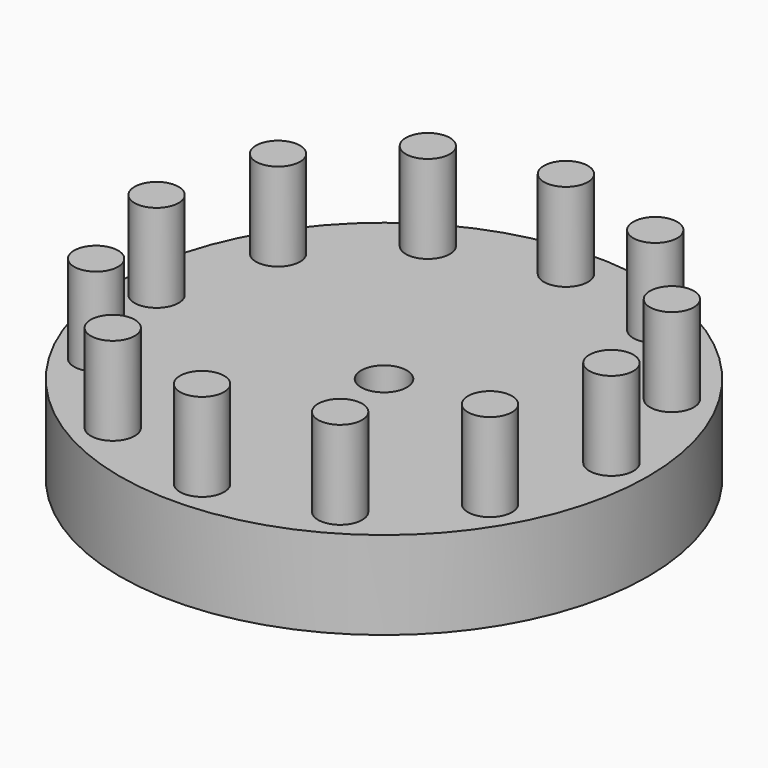
from build123d import *

# Parameters (mm, degrees)
F0_R     = 38.1
F0_R_2   = 3.302
F1_DEPTH = 12.7
F2_R     = 3.175
F3_DEPTH = 12.7


with BuildPart() as f1:
    # F0 (on Top) → F1 (new body)
    with BuildSketch(Plane.XY):
        Circle(F0_R)
        Circle(F0_R_2, mode=Mode.SUBTRACT)
    extrude(amount=F1_DEPTH)

    # F2 (on face) → F3 (join)
    with BuildSketch(Plane.XY.offset(12.7)):
        with Locations((0, 32.803454)):
            Circle(F2_R)
        with Locations((-16.401727, 28.408624)):
            Circle(F2_R)
        with Locations((-28.408624, 16.401727)):
            Circle(F2_R)
        with Locations((-32.803454, 0)):
            Circle(F2_R)
        with Locations((-28.408624, -16.401727)):
            Circle(F2_R)
        with Locations((-16.401727, -28.408624)):
            Circle(F2_R)
        with Locations((0, -32.803454)):
            Circle(F2_R)
        with Locations((16.401727, -28.408624)):
            Circle(F2_R)
        with Locations((28.408624, -16.401727)):
            Circle(F2_R)
        with Locations((32.803454, 0)):
            Circle(F2_R)
        with Locations((28.408624, 16.401727)):
            Circle(F2_R)
        with Locations((16.401727, 28.408624)):
            Circle(F2_R)
    extrude(amount=F3_DEPTH)


solid = f1.part
